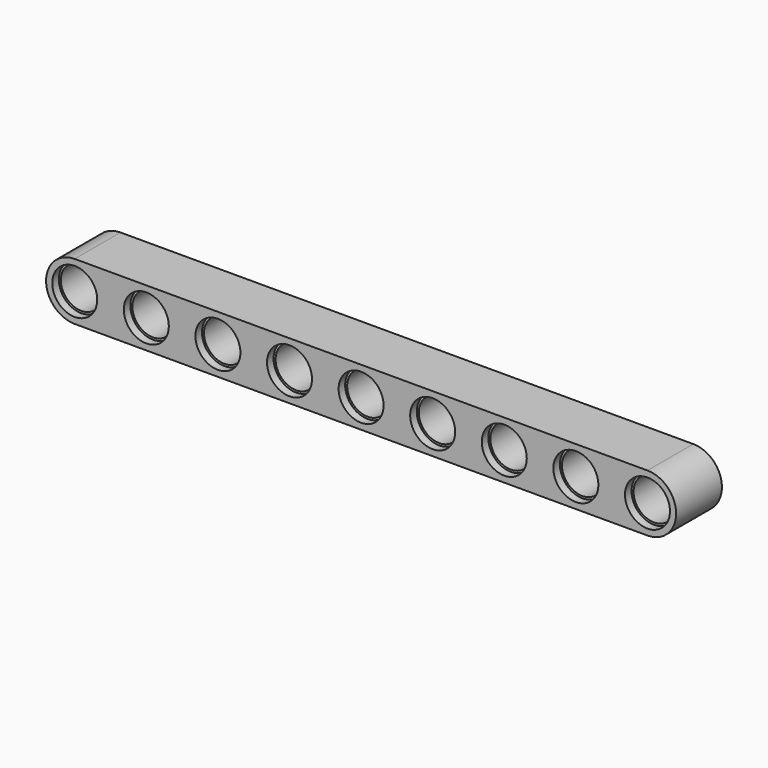
from build123d import *

# Parameters (mm, degrees)
F0_R     = 2.5
F1_DEPTH = 7
F2_R     = 2.75
F3_DEPTH = 1
F4_R     = 2.75
F5_DEPTH = 1


with BuildPart() as f1:
    # F0 (on Front) → F1 (new body)
    with BuildSketch(Plane.XZ):
        with BuildLine():
            ThreePointArc((35, -3.5), (38.5, 0), (35, 3.5))
            Line((35, 3.5), (-35, 3.5))
            ThreePointArc((-35, 3.5), (-38.5, 0), (-35, -3.5))
            Line((-35, -3.5), (35, -3.5))
        make_face()
        with Locations((-35, 0)):
            Circle(F0_R, mode=Mode.SUBTRACT)
        with Locations((-26.25, 0)):
            Circle(F0_R, mode=Mode.SUBTRACT)
        with Locations((-17.5, 0)):
            Circle(F0_R, mode=Mode.SUBTRACT)
        with Locations((-8.75, 0)):
            Circle(F0_R, mode=Mode.SUBTRACT)
        Circle(F0_R, mode=Mode.SUBTRACT)
        with Locations((8.75, 0)):
            Circle(F0_R, mode=Mode.SUBTRACT)
        with Locations((17.5, 0)):
            Circle(F0_R, mode=Mode.SUBTRACT)
        with Locations((26.25, 0)):
            Circle(F0_R, mode=Mode.SUBTRACT)
        with Locations((35, 0)):
            Circle(F0_R, mode=Mode.SUBTRACT)
    extrude(amount=F1_DEPTH)

    # F2 (on face) → F3 (cut)
    with BuildSketch(Plane(origin=(0, 0, 0), x_dir=(-1, 0, 0), z_dir=(0, 1, 0))):
        with Locations((35, 0)):
            Circle(F2_R)
        with Locations((26.25, 0)):
            Circle(F2_R)
        with Locations((17.5, 0)):
            Circle(F2_R)
        with Locations((8.75, 0)):
            Circle(F2_R)
        Circle(F2_R)
        with Locations((-8.75, 0)):
            Circle(F2_R)
        with Locations((-17.5, 0)):
            Circle(F2_R)
        with Locations((-26.25, 0)):
            Circle(F2_R)
        with Locations((-35, 0)):
            Circle(F2_R)
    extrude(amount=-F3_DEPTH, mode=Mode.SUBTRACT)

    # F4 (on face) → F5 (cut)
    with BuildSketch(Plane.XZ.offset(7)):
        with Locations((35, 0)):
            Circle(F4_R)
        with Locations((26.25, 0)):
            Circle(F4_R)
        with Locations((17.5, 0)):
            Circle(F4_R)
        with Locations((8.75, 0)):
            Circle(F4_R)
        Circle(F4_R)
        with Locations((-8.75, 0)):
            Circle(F4_R)
        with Locations((-17.5, 0)):
            Circle(F4_R)
        with Locations((-26.25, 0)):
            Circle(F4_R)
        with Locations((-35, 0)):
            Circle(F4_R)
    extrude(amount=-F5_DEPTH, mode=Mode.SUBTRACT)


solid = f1.part
